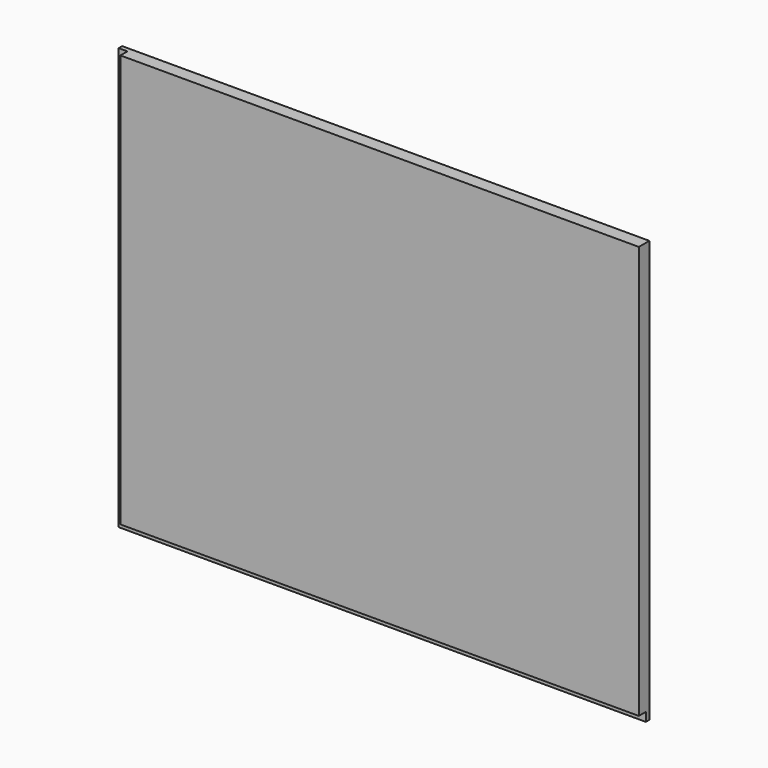
from build123d import *

# Parameters (mm, degrees)
F0_W     = 762
F0_H     = 609.6
F1_DEPTH = 19.05
F2_W     = 12.7
F2_H     = 12.8016
F3_DEPTH = 762.001
F4_W     = 12.7
F4_H     = 12.7
F5_DEPTH = 609.601


with BuildPart() as f1:
    # F0 (on Front) → F1 (new body)
    with BuildSketch(Plane.XZ):
        with Locations((381, 304.8)):
            Rectangle(F0_W, F0_H)
    extrude(amount=F1_DEPTH)

    # F2 (on face) → F3 (cut, through all)
    with BuildSketch(Plane.YZ.offset(762)):
        with Locations((-12.7, 6.4008)):
            Rectangle(F2_W, F2_H)
    extrude(amount=-F3_DEPTH, mode=Mode.SUBTRACT)

    # F4 (on face) → F5 (cut, through all)
    with BuildSketch(Plane.XY.offset(609.6)):
        with Locations((6.35, -12.7)):
            Rectangle(F4_W, F4_H)
    extrude(amount=-F5_DEPTH, mode=Mode.SUBTRACT)


solid = f1.part
